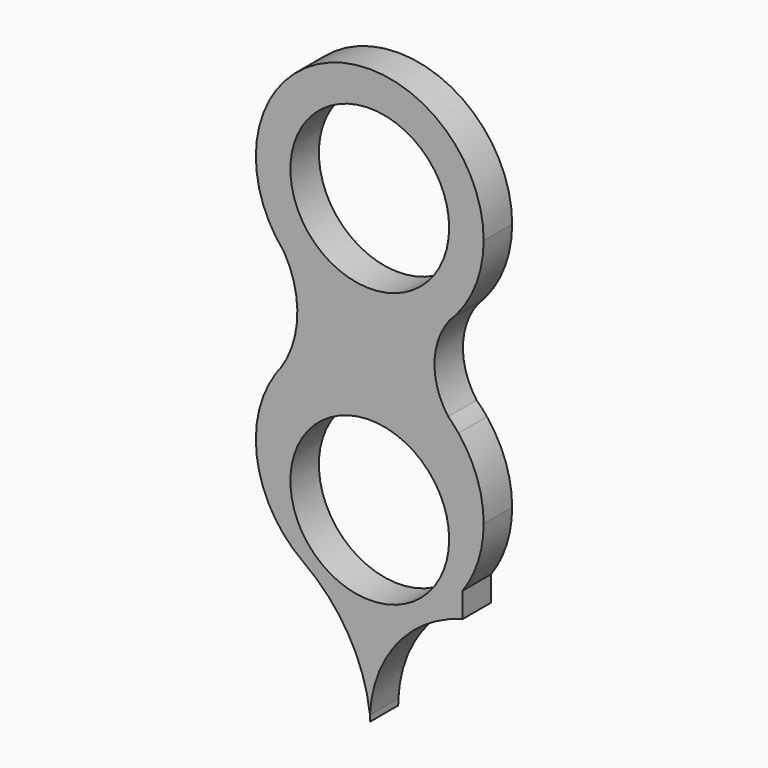
from build123d import *

# Parameters (mm, degrees)
F1_DEPTH = 5
F2_R     = 11.15
F3_DEPTH = 5
F5_COUNT = 3


with BuildPart() as f1:
    # F0 (on Front) → F1 (new body)
    with BuildSketch(Plane.XZ):
        with BuildLine():
            ThreePointArc((12.223679, -10.32384), (15.026291, -5.496414), (16, 0))
            ThreePointArc((16, 0), (-5.648343, 14.969844), (-12.012028, -10.569351))
            ThreePointArc((-12.012028, -10.569351), (-0.562686, -15.990103), (11.239372, -11.38756))
            ThreePointArc((11.239372, -11.38756), (11.711961, -10.837596), (12.223679, -10.32384))
        make_face()
        with BuildLine():
            ThreePointArc((11.239372, -11.38756), (-0.562686, -15.990103), (-12.012028, -10.569351))
            ThreePointArc((-12.012028, -10.569351), (-10.178101, -17.877857), (-12.521378, -25.039323))
            ThreePointArc((-12.521378, -25.039323), (-1.11025, -19.038567), (11.021772, -23.401701))
            ThreePointArc((11.021772, -23.401701), (9.08978, -17.357668), (11.239372, -11.38756))
        make_face()
        with BuildLine():
            ThreePointArc((11.239372, -11.38756), (11.743575, -10.86685), (12.223679, -10.32384))
            ThreePointArc((12.223679, -10.32384), (11.711961, -10.837596), (11.239372, -11.38756))
        make_face()
        with BuildLine():
            ThreePointArc((-13.174834, -25.921247), (-12.839194, -25.486888), (-12.521378, -25.039323))
            ThreePointArc((-12.521378, -25.039323), (-12.855671, -25.47468), (-13.174834, -25.921247))
        make_face()
        with BuildLine():
            ThreePointArc((11.021772, -23.401701), (-1.11025, -19.038567), (-12.521378, -25.039323))
            ThreePointArc((-12.521378, -25.039323), (-12.839194, -25.486888), (-13.174834, -25.921247))
            ThreePointArc((-13.174834, -25.921247), (-15.764732, -37.733723), (-9.348894, -47.984536))
            ThreePointArc((-9.348894, -47.984536), (-9.310283, -48.012249), (-9.271591, -48.039847))
            ThreePointArc((-9.271591, -48.039847), (-4.866336, -50.242007), (0, -51))
            ThreePointArc((0, -51), (7.33666, -49.21877), (13.039785, -44.271678))
            ThreePointArc((13.039785, -44.271678), (15.241991, -39.866387), (16, -35))
            ThreePointArc((16, -35), (15.088679, -29.677241), (12.45853, -24.960825))
            ThreePointArc((12.45853, -24.960825), (11.698135, -24.219982), (11.021772, -23.401701))
        make_face()
        with BuildLine():
            ThreePointArc((12.45853, -24.960825), (11.766004, -24.157439), (11.021772, -23.401701))
            ThreePointArc((11.021772, -23.401701), (11.698135, -24.219982), (12.45853, -24.960825))
        make_face()
        with BuildLine():
            ThreePointArc((0, -51), (-4.866336, -50.242007), (-9.271591, -48.039847))
            ThreePointArc((-9.271591, -48.039847), (-3.003319, -54.882391), (0, -63.662581))
            Line((0, -63.662581), (0, -51))
        make_face()
        with BuildLine():
            Line((13.039785, -47.787126), (13.039785, -44.271678))
            ThreePointArc((13.039785, -44.271678), (7.33666, -49.21877), (0, -51))
            Line((0, -51), (0, -63.662581))
            ThreePointArc((0, -63.662581), (0.011408, -63.756024), (0.022428, -63.849514))
            ThreePointArc((0.022428, -63.849514), (3.912004, -53.695735), (13.039785, -47.787126))
        make_face()
        with BuildLine():
            ThreePointArc((0.022428, -63.849514), (0.011408, -63.756024), (0, -63.662581))
            Line((0, -63.662581), (0, -64.736106))
            ThreePointArc((0, -64.736106), (0.005608, -64.292668), (0.022428, -63.849514))
        make_face()
    extrude(amount=F1_DEPTH)

    # F2 (on Front) → F3 (cut, through all)
    with BuildSketch(Plane.XZ):
        Circle(F2_R)
        with Locations((0, -38.534194)):
            Circle(F2_R)
    extrude(amount=F3_DEPTH, mode=Mode.SUBTRACT)


with BuildPart() as f5_1:
    # F5: instance of F1
    add(f1.part.rotate(Axis((0, 15.020472, 0), (0, 1, 0)), 1 * 360 / F5_COUNT))


with BuildPart() as f5_2:
    # F5: instance of F1
    add(f1.part.rotate(Axis((0, 15.020472, 0), (0, 1, 0)), 2 * 360 / F5_COUNT))


solid = f1.part
